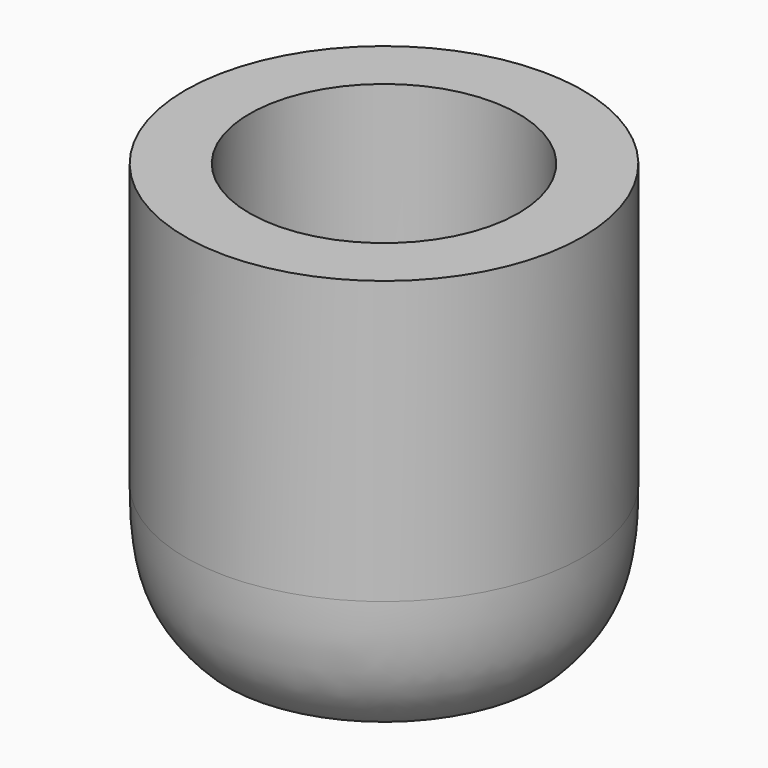
from build123d import *


with BuildPart() as f1:
    # F0 (on Front) → F1 (revolve)
    with BuildSketch(Plane.XZ):
        with BuildLine():
            Line((0, 15.875), (0, 0))
            Line((0, 0), (38.8084338195, 0))
            add(Edge.make_bspline(
                [(49.2125, 31.6614325016), (49.2125, 26.7978290762), (49.0916167773, 10.640561103), (40.193340312, 1.320261391), (38.8084338195, 0)],
                knots=[0, 0, 0, 0, 0.5565481811, 1, 1, 1, 1], degree=3))
            Line((49.2125, 31.6614325016), (49.2125, 101.6))
            Line((49.2125, 101.6), (33.3375, 101.6))
            Line((33.3375, 101.6), (33.3375, 34.9139658104))
            add(Edge.make_bspline(
                [(33.3375, 34.9139658104), (33.3375, 29.2359101374), (31.5263553901, 19.041466207), (23.9405606122, 16.0034213664), (22.2781707294, 15.875)],
                knots=[0, 0, 0, 0, 0.5833323151, 1, 1, 1, 1], degree=3))
            Line((22.2781707294, 15.875), (0, 15.875))
        make_face()
    revolve(axis=Axis((0, 0, 7.9375), (0, 0, 1)))


solid = f1.part
